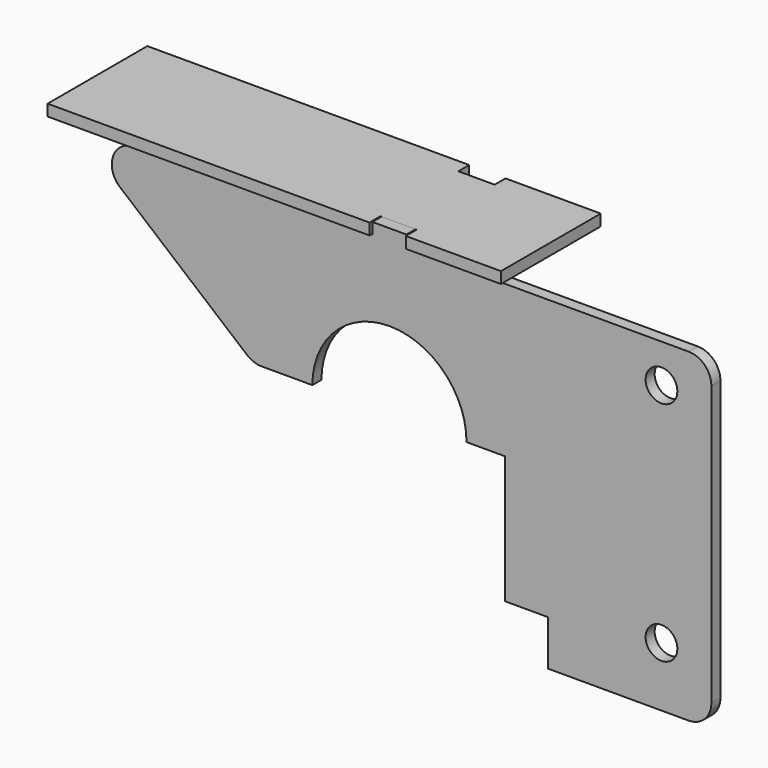
from build123d import *

# Parameters (mm, degrees)
F0_R     = 7
F0_W     = 15
F0_H     = 5
F1_DEPTH = 5
F3_DEPTH = 5


with BuildPart() as f1:
    # F0 (on Front) → F1 (new body)
    with BuildSketch(Plane.XZ):
        with BuildLine():
            Line((-7.5, 67), (-112.485019, 67))
            ThreePointArc((-112.485019, 67), (-121.883551, 60.415787), (-118.905696, 49.33352))
            Line((-118.905696, 49.33352), (-62.786293, 2.33352))
            ThreePointArc((-62.786293, 2.33352), (-59.781403, 0.601468), (-56.365616, 0))
            Line((-56.365616, 0), (-34, 0))
            ThreePointArc((-34, 0), (0, 34), (34, 0))
            Line((34, 0), (51, 0))
            Line((51, 0), (51, -56.3))
            Line((51, -56.3), (70, -56.3))
            Line((70, -56.3), (70, -76.3))
            Line((70, -76.3), (132, -76.3))
            ThreePointArc((132, -76.3), (139.071068, -73.371068), (142, -66.3))
            Line((142, -66.3), (142, 57))
            ThreePointArc((142, 57), (139.071068, 64.071068), (132, 67))
            Line((132, 67), (7.5, 67))
            Line((7.5, 67), (-7.5, 67))
        make_face()
        with Locations((120, -50)):
            Circle(F0_R, mode=Mode.SUBTRACT)
        with Locations((120, 50)):
            Circle(F0_R, mode=Mode.SUBTRACT)
        with Locations((0, 69.5)):
            Rectangle(F0_W, F0_H)
    extrude(amount=F1_DEPTH)


with BuildPart() as f3:
    # F2 (on face) → F3 (new body)
    with BuildSketch(Plane.XY.offset(67)):
        Polygon((8, -6), (50, -6), (50, 49), (8, 49), (8, 43), (-8, 43), (-8, 49), (-150, 49), (-150, -6), (-8, -6), (-8, 0), (8, 0), align=None)
    extrude(amount=F3_DEPTH)


solid = Compound([f1.part, f3.part])
